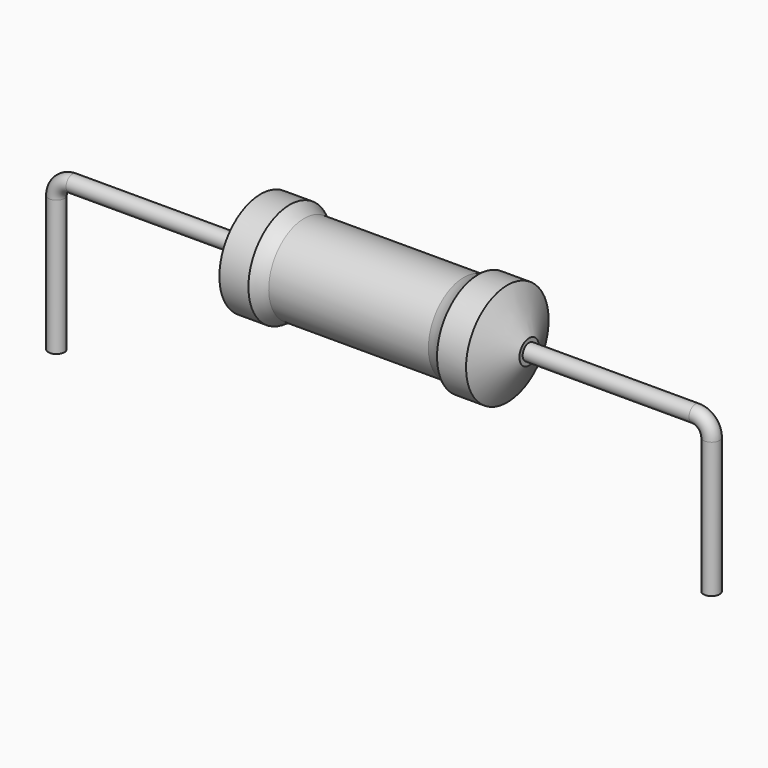
from build123d import *

# Parameters (mm, degrees)
SKETCH_R = 0.25


with BuildPart() as revolution:
    # Sketch002 → Revolution (revolve)
    with BuildSketch(Plane.XZ):
        with BuildLine():
            Line((6.335, 3.3), (7.235, 3.3))
            ThreePointArc((7.235, 3.3), (7.450689, 3.168878), (7.685, 3.075))
            Line((7.685, 3.075), (12.635, 3.075))
            ThreePointArc((12.635, 3.075), (12.869311, 3.168878), (13.085, 3.3))
            Line((13.085, 3.3), (13.985, 3.3))
            ThreePointArc((14.66, 2.075), (14.324022, 2.688339), (13.985, 3.3))
            Line((14.66, 1.7), (14.66, 2.075))
            Line((5.66, 1.7), (14.66, 1.7))
            Line((5.66, 1.7), (5.66, 2.075))
            ThreePointArc((6.335, 3.3), (5.995978, 2.688339), (5.66, 2.075))
        make_face()
    revolve(axis=Axis((5.66, 0, 1.7), (1, 0, 0)))


with BuildPart() as sweep_body:
    # Sweep: sweep along a path in Sketch001
    with BuildLine(Plane.XZ) as sweep_path:
        Line((0, -3), (0, 1.2))
        ThreePointArc((0, 1.2), (0.14645, 1.553557), (0.50001, 1.7))
        Line((0.50001, 1.7), (19.82, 1.7))
        ThreePointArc((19.82, 1.7), (20.173553, 1.553553), (20.32, 1.2))
        Line((20.32, 1.2), (20.32, -3))
    # Sketch → Sweep (sweep)
    with BuildSketch(Plane.XY.offset(-2)):
        Circle(SKETCH_R)
    sweep(path=sweep_path.line)


solid = Compound([revolution.part, sweep_body.part])
